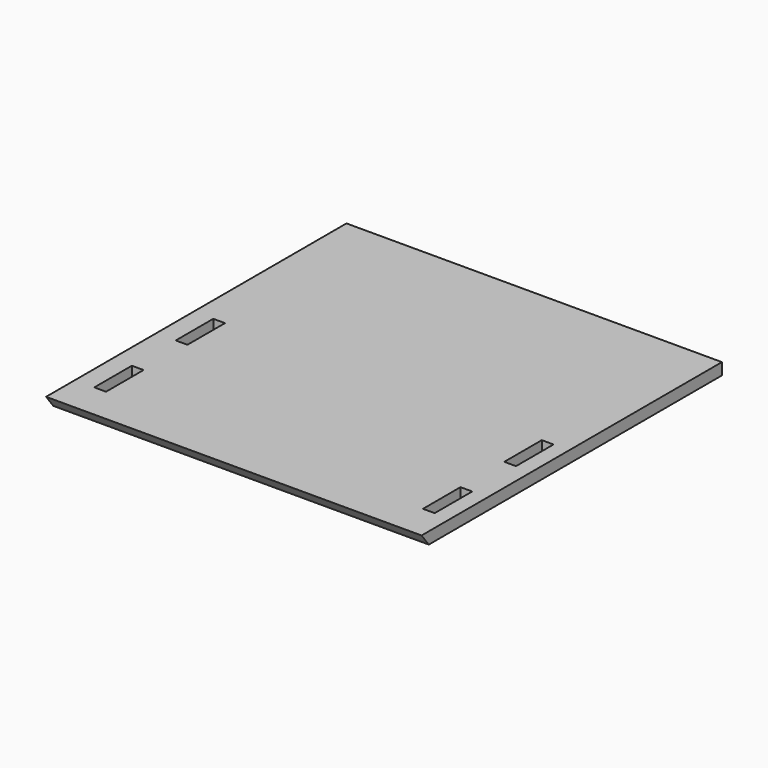
from build123d import *

# Parameters (mm, degrees)
F0_W     = 609.6
F0_H     = 609.6
F1_DEPTH = 19.05
F4_DEPTH = 747.014
F2_W     = 19.05
F2_H     = 76.2
F5_DEPTH = 25.4


with BuildPart() as f1:
    # F0 (on Top) → F1 (new body)
    with BuildSketch(Plane.XY):
        with Locations((-236.922948, -153.95108)):
            Rectangle(F0_W, F0_H)
    extrude(amount=F1_DEPTH)

    # F3 (on face) → F4 (cut)
    with BuildSketch(Plane.YZ.offset(67.877052)):
        Polygon((-444.019914, 0), (-458.75108, 19.05), (-458.75108, 0), align=None)
    extrude(amount=-F4_DEPTH, mode=Mode.SUBTRACT)

    # F2 (on face) → F5 (cut)
    with BuildSketch(Plane(origin=(0, 0, 0), x_dir=(1, 0, 0), z_dir=(0, 0, -1))):
        with Locations((-500.570309, 362.360354)):
            Rectangle(F2_W, F2_H)
        with Locations((-500.447948, 197.260354)):
            Rectangle(F2_W, F2_H)
        with Locations((32.952052, 197.260354)):
            Rectangle(F2_W, F2_H)
        with Locations((33.074412, 362.360354)):
            Rectangle(F2_W, F2_H)
    extrude(amount=-F5_DEPTH, mode=Mode.SUBTRACT)


solid = f1.part
